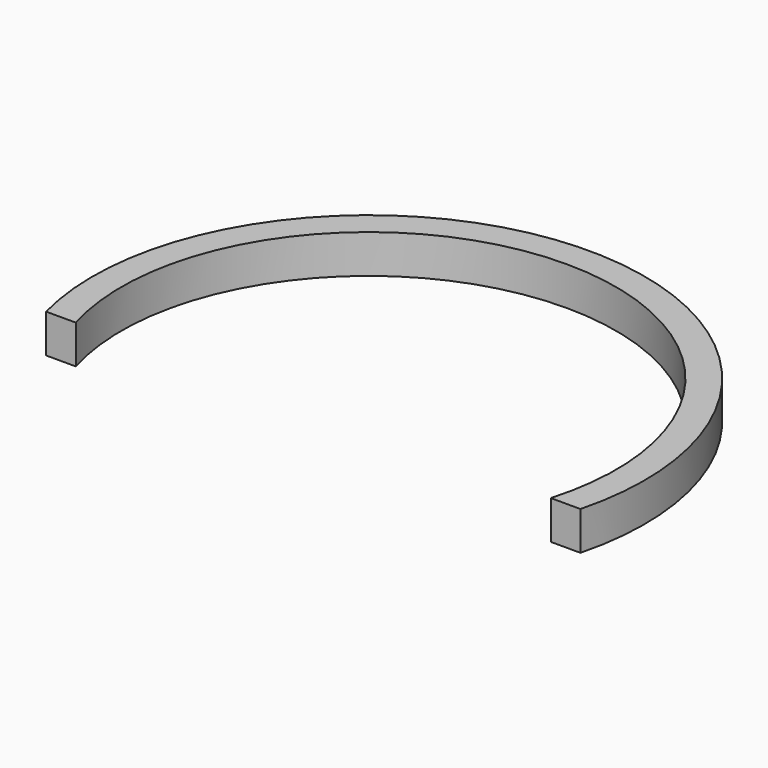
from build123d import *

# Parameters (mm, degrees)
PAD_DEPTH = 3.9


with BuildPart() as part:
    # Sketch → Pad (new body)
    with BuildSketch(Plane.XY):
        with BuildLine():
            ThreePointArc((24, -7), (0, 25), (-24, -7))
            Line((-24, -7), (-27, -7))
            ThreePointArc((27, -7), (0, 27.892651), (-27, -7))
            Line((24, -7), (27, -7))
        make_face()
    extrude(amount=PAD_DEPTH)


solid = part.part
